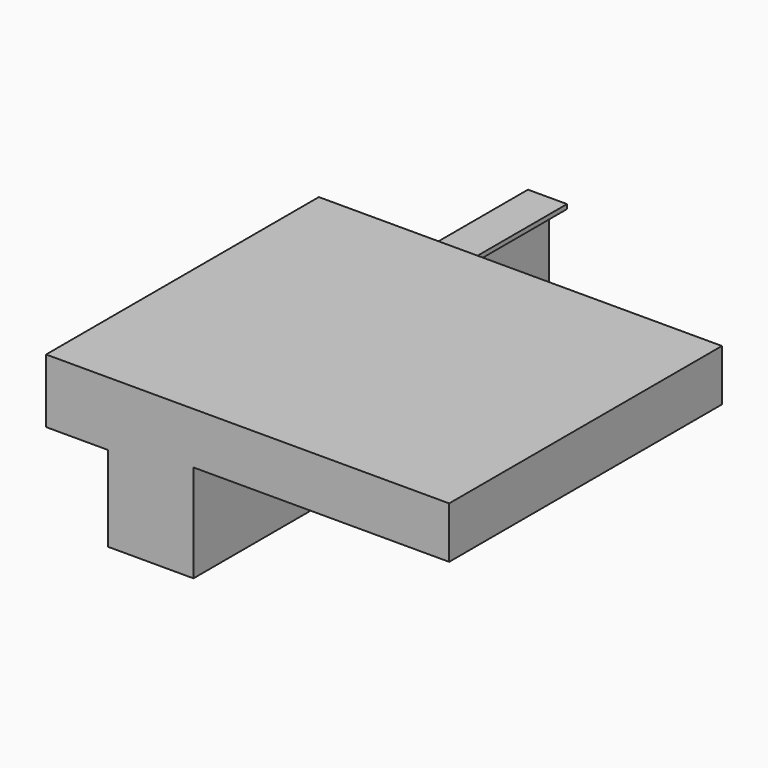
from build123d import *

# Parameters (mm, degrees)
F1_DEPTH = 514.096
F3_DEPTH = 1219.2


with BuildPart() as f1:
    # F0 (on Front) → F1 (new body)
    with BuildSketch(Plane.XZ):
        Polygon((69.85, 190.5), (-69.85, 190.5), (-69.85, 174.7012), (-5.207, 174.7012), (-5.207, -174.7012), (-69.85, -174.7012), (-69.85, -190.5), (69.85, -190.5), (69.85, -174.7012), (5.207, -174.7012), (5.207, 174.7012), (69.85, 174.7012), align=None)
    extrude(amount=F1_DEPTH)

    # F2 (on face) → F3 (join)
    with BuildSketch(Plane.XZ.offset(514.096)):
        Polygon((1035.05, 82.55), (1035.05, 266.7), (-406.4, 266.7), (-406.4, 38.1), (-184.15, 38.1), (-184.15, -266.7), (120.65, -266.7), (120.65, 82.55), align=None)
    extrude(amount=F3_DEPTH)


solid = f1.part
